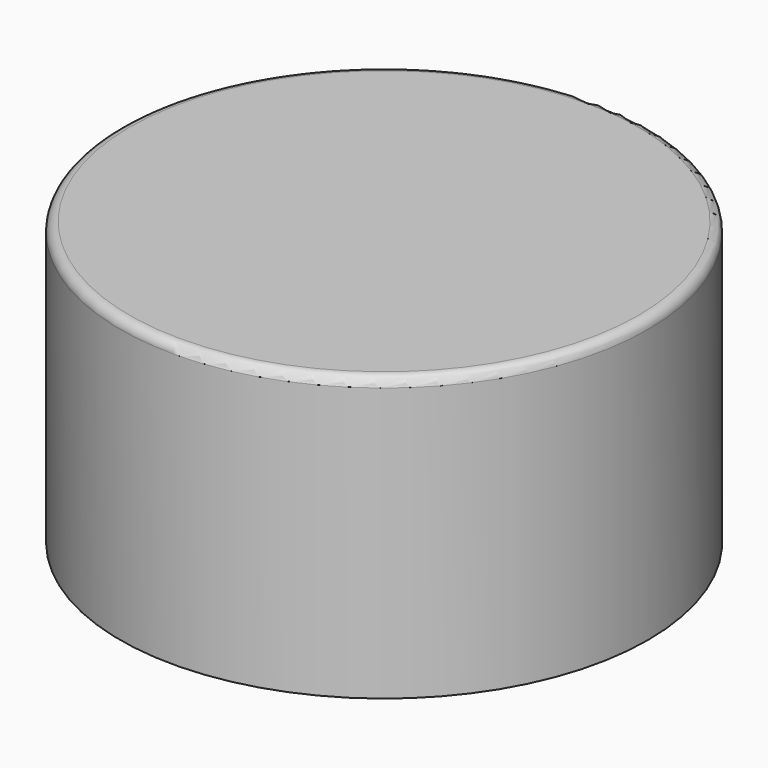
from build123d import *

# Parameters (mm, degrees)
CYLINDER027_R          = 1.7
CYLINDER027_DEPTH      = 10.5
CYLINDER026_R          = 1.7
CYLINDER026_DEPTH      = 11.5
CYLINDER018_R          = 26.7
CYLINDER018_DEPTH      = 30
CYLINDER019_R          = 28
CYLINDER019_DEPTH      = 30
FILLET001_R            = 1
BOX001_W               = 8
BOX001_H               = 13.5
BOX001_DEPTH           = 20
BOX001_PLACEMENT_ANGLE = 237
FILLET004_1_R          = 2.5
FILLET004_2_R          = 2
CYLINDER021_R          = 3
CYLINDER021_DEPTH      = 5.5
CYLINDER020_R          = 3
CYLINDER020_DEPTH      = 5.5
BOX_W                  = 8
BOX_H                  = 13.5
BOX_DEPTH              = 20
BOX_PLACEMENT_ANGLE    = 51
FILLET003_1_R          = 2.5
FILLET003_2_R          = 2


with BuildPart() as obj1:
    # Cylinder027 → Cylinder027 (new body)
    with BuildSketch(Plane(origin=(2.2, 8, -3.4), x_dir=(1, 0, 0), z_dir=(0, 0, 1))):
        Circle(CYLINDER027_R)
    extrude(amount=CYLINDER027_DEPTH)


with BuildPart() as obj2:
    # Cylinder026 → Cylinder026 (new body)
    with BuildSketch(Plane(origin=(-29.1, 29.1, -3.4), x_dir=(1, 0, 0), z_dir=(0, 0, 1))):
        Circle(CYLINDER026_R)
    extrude(amount=CYLINDER026_DEPTH)

    # Fusion007: union obj1
    add(obj1.part)


with BuildPart() as base_exterior_vaciado001:
    # Cylinder018 → Cylinder018 (new body)
    with BuildSketch(Plane(origin=(-12.5, 19, -10.6), x_dir=(1, 0, 0), z_dir=(0, 0, 1))):
        Circle(CYLINDER018_R)
    extrude(amount=CYLINDER018_DEPTH)


with BuildPart() as base:
    # Cylinder019 → Cylinder019 (new body)
    with BuildSketch(Plane(origin=(-12.5, 19, -10), x_dir=(1, 0, 0), z_dir=(0, 0, 1))):
        Circle(CYLINDER019_R)
    extrude(amount=CYLINDER019_DEPTH)

    # Cut011: cut base exterior vaciado001
    add(base_exterior_vaciado001.part, mode=Mode.SUBTRACT)

    # Fillet001
    fillet001_edges = [base.edges().sort_by_distance(p)[0] for p in [
        (-40.5, 19, 20),
        (-39.2, 19, 19.4),
    ]]
    fillet(fillet001_edges, radius=FILLET001_R)


with BuildPart() as obj3:
    # Box001 → Box001 (new body)
    with BuildSketch(Plane.XY):
        with Locations((4, 6.75)):
            Rectangle(BOX001_W, BOX001_H)
    extrude(amount=BOX001_DEPTH)


with BuildPart() as obj3_1:
    # Box001 placement: moved
    add(obj3.part.moved(Location((-33.471804, 36.855151, 0))).rotate(Axis((-33.471804, 36.855151, 0), (0, 0, 1)), BOX001_PLACEMENT_ANGLE))

    # Fillet004 1
    fillet004_1_edges = [obj3_1.edges().sort_by_distance(p)[0] for p in [
        (-35.65036, 33.500468, 20),
    ]]
    fillet(fillet004_1_edges, radius=FILLET004_1_R)

    # Fillet004 2
    fillet004_2_edges = [obj3_1.edges().sort_by_distance(p)[0] for p in [
        (-22.149751, 29.502524, 10),
        (-26.506863, 22.793159, 10),
    ]]
    fillet(fillet004_2_edges, radius=FILLET004_2_R)


with BuildPart() as obj4:
    # Cylinder021 → Cylinder021 (new body)
    with BuildSketch(Plane(origin=(-29.1, 29.1, -1.8), x_dir=(1, 0, 0), z_dir=(0, 0, 1))):
        Circle(CYLINDER021_R)
    extrude(amount=CYLINDER021_DEPTH)


with BuildPart() as obj5:
    # Cylinder020 → Cylinder020 (new body)
    with BuildSketch(Plane(origin=(2.2, 8, -1.8), x_dir=(1, 0, 0), z_dir=(0, 0, 1))):
        Circle(CYLINDER020_R)
    extrude(amount=CYLINDER020_DEPTH)


with BuildPart() as base_v10_final:
    # Box → Box (new body)
    with BuildSketch(Plane.XY):
        with Locations((4, 6.75)):
            Rectangle(BOX_W, BOX_H)
    extrude(amount=BOX_DEPTH)


with BuildPart() as base_v10_final_1:
    # Box placement: moved
    add(base_v10_final.part.moved(Location((6.739128, -1.032332, 0))).rotate(Axis((6.739128, -1.032332, 0), (0, 0, 1)), BOX_PLACEMENT_ANGLE))

    # Fillet003 1
    fillet003_1_edges = [base_v10_final_1.edges().sort_by_distance(p)[0] for p in [
        (9.256409, 2.076252, 20),
    ]]
    fillet(fillet003_1_edges, radius=FILLET003_1_R)

    # Fillet003 2
    fillet003_2_edges = [base_v10_final_1.edges().sort_by_distance(p)[0] for p in [
        (-3.752343, 7.463494, 10),
        (1.282221, 13.680661, 10),
    ]]
    fillet(fillet003_2_edges, radius=FILLET003_2_R)

    # Fusion006: union base, obj3, obj4, obj5
    add(base.part)
    add(obj3_1.part)
    add(obj4.part)
    add(obj5.part)

    # Cut019: cut obj2
    add(obj2.part, mode=Mode.SUBTRACT)


solid = base_v10_final_1.part
